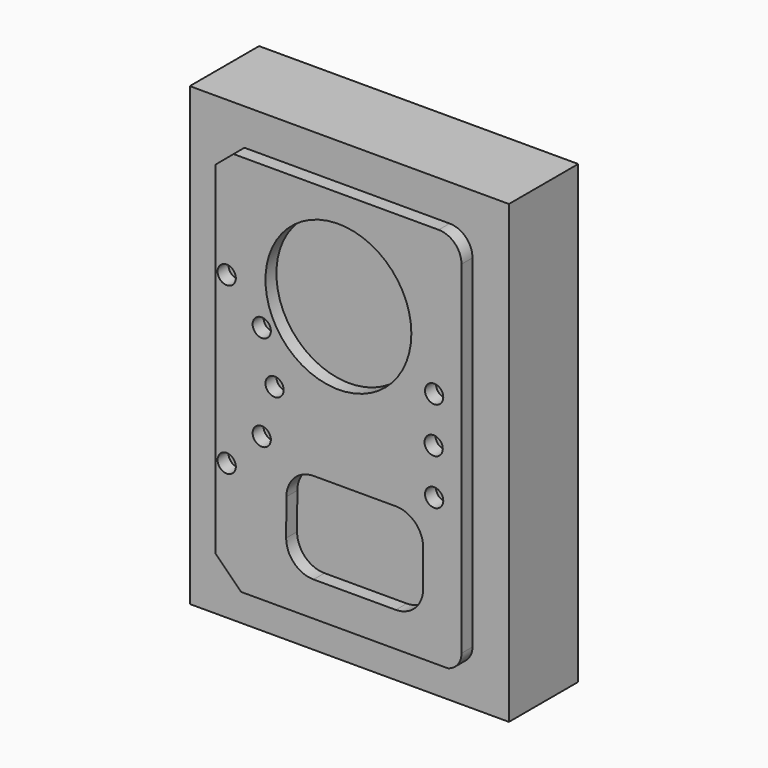
from build123d import *

# Parameters (mm, degrees)
F0_W      = 70
F0_H      = 100
F1_DEPTH  = 19
F3_DEPTH  = 3
F4_R      = 16
F5_DEPTH  = 3
F7_DEPTH  = 3
F8_R      = 2
F9_DEPTH  = 3
F10_R     = 2
F11_DEPTH = 3


with BuildPart() as f1:
    # F0 (on Front) → F1 (new body)
    with BuildSketch(Plane.XZ):
        with Locations((35, -50)):
            Rectangle(F0_W, F0_H)
    extrude(amount=F1_DEPTH)

    # F2 (on face) → F3 (join)
    with BuildSketch(Plane.XZ.offset(19)):
        with BuildLine():
            Line((57, -8), (12, -8))
            Line((12, -8), (8, -11.356399))
            Line((8, -11.356399), (8, -86.344417))
            Line((8, -86.344417), (13.655583, -92))
            Line((13.655583, -92), (59, -92))
            ThreePointArc((59, -92), (61.162278, -90.576506), (62, -88.127017))
            Line((62, -88.127017), (62, -13))
            ThreePointArc((62, -13), (60.535534, -9.464466), (57, -8))
        make_face()
    extrude(amount=F3_DEPTH)

    # F4 (on face) → F5 (cut)
    with BuildSketch(Plane.XZ.offset(22)):
        with Locations((35, -30)):
            Circle(F4_R)
    extrude(amount=-F5_DEPTH, mode=Mode.SUBTRACT)

    # F6 (on face) → F7 (cut)
    with BuildSketch(Plane.XZ.offset(22)):
        with BuildLine():
            Line((47.590841, -64.431946), (29.590728, -64.431946))
            ThreePointArc((29.590728, -64.431946), (25.361132, -66.176302), (23.590841, -70.395109))
            Line((23.590841, -70.395109), (23.541725, -78.395109))
            ThreePointArc((23.541725, -78.395109), (25.285967, -82.661543), (29.541612, -84.431946))
            Line((29.541612, -84.431946), (47.590841, -84.431946))
            ThreePointArc((47.590841, -84.431946), (51.833482, -82.674587), (53.590841, -78.431946))
            Line((53.590841, -78.431946), (53.590841, -70.431946))
            ThreePointArc((53.590841, -70.431946), (51.833482, -66.189306), (47.590841, -64.431946))
        make_face()
    extrude(amount=-F7_DEPTH, mode=Mode.SUBTRACT)

    # F8 (on face) → F9 (cut)
    with BuildSketch(Plane.XZ.offset(22)):
        with Locations((10.5, -31.813467)):
            Circle(F8_R)
        with Locations((18.186533, -39.5)):
            Circle(F8_R)
        with BuildLine():
            ThreePointArc((19, -50), (21, -52), (23, -50))
            ThreePointArc((23, -50), (21, -48), (19, -50))
        make_face()
        with Locations((18.186533, -60.5)):
            Circle(F8_R)
        with Locations((10.5, -68.186533)):
            Circle(F8_R)
    extrude(amount=-F9_DEPTH, mode=Mode.SUBTRACT)

    # F10 (on face) → F11 (cut)
    with BuildSketch(Plane.XZ.offset(22)):
        with Locations((56, -40)):
            Circle(F10_R)
        with Locations((55.891707, -50)):
            Circle(F10_R)
        with Locations((56, -60)):
            Circle(F10_R)
    extrude(amount=-F11_DEPTH, mode=Mode.SUBTRACT)


solid = f1.part
